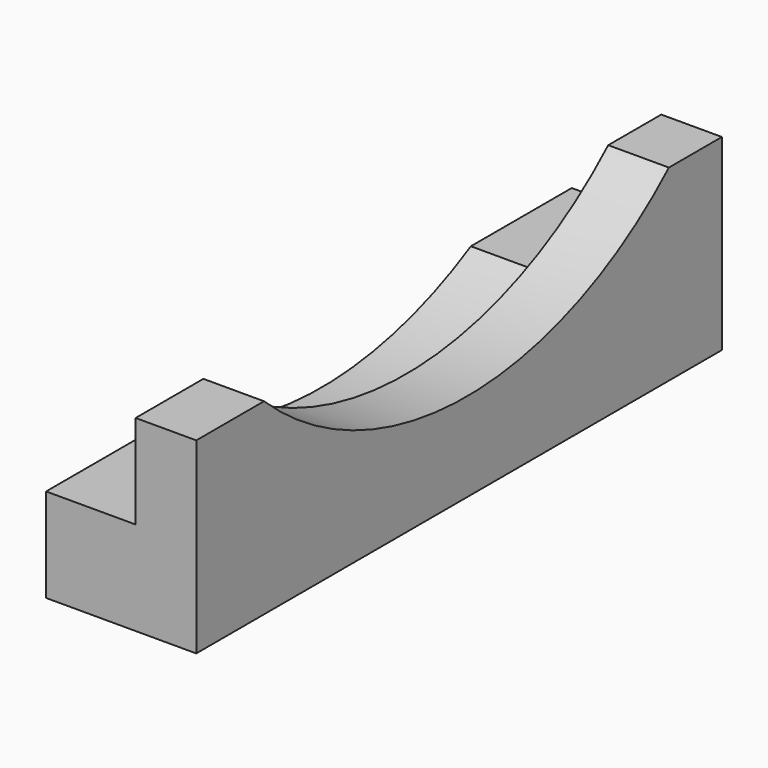
from build123d import *

# Parameters (mm, degrees)
F0_W     = 9.545457
F0_H     = 70.051323
F1_DEPTH = 10
F3_DEPTH = 50
F0_W_2   = 6.466273
F4_DEPTH = 20
F6_DEPTH = 50


with BuildPart() as f1:
    # F0 (on Top) → F1 (new body)
    with BuildSketch(Plane.XY):
        with Locations((-40.414223, 12.239737)):
            Rectangle(F0_W, F0_H)
    extrude(amount=F1_DEPTH)

    # F2 (on Right) → F3 (cut)
    with BuildSketch(Plane.YZ):
        with BuildLine():
            ThreePointArc((-10.673997, 12.938293), (14.378322, 4.831678), (39.214806, 13.577245))
            Line((39.214806, 13.577245), (-10.673997, 12.938293))
        make_face()
    extrude(amount=-F3_DEPTH, mode=Mode.SUBTRACT)

    # F0 (on Top) → F4 (join)
    with BuildSketch(Plane.XY):
        with Locations((-32.408358, 12.239737)):
            Rectangle(F0_W_2, F0_H)
    extrude(amount=F4_DEPTH)

    # F5 (on Right) → F6 (cut)
    with BuildSketch(Plane.YZ):
        with BuildLine():
            Line((46.000224, 26.69229), (-19.578034, 26.722144))
            ThreePointArc((-19.578034, 26.722144), (13.203243, 9.459906), (46.000224, 26.69229))
        make_face()
    extrude(amount=-F6_DEPTH, mode=Mode.SUBTRACT)


solid = f1.part
